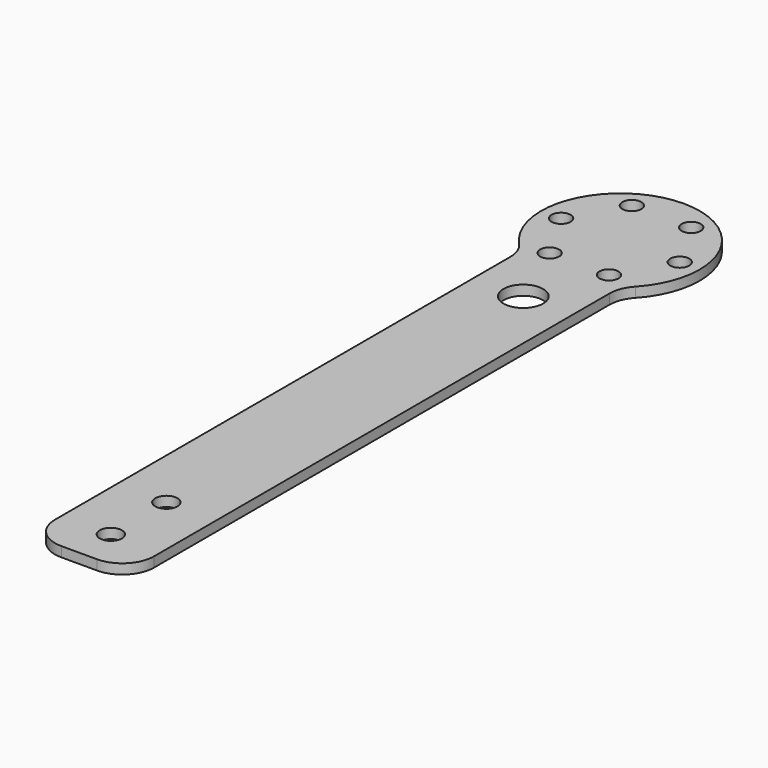
from build123d import *

# Parameters (mm, degrees)
F0_R     = 1.778
F0_R_2   = 1.524
F0_R_3   = 3.175
F1_DEPTH = 1.5875
F2_R     = 5.08


with BuildPart() as f1:
    # F0 (on Top) → F1 (new body)
    with BuildSketch(Plane.XY):
        with BuildLine():
            Line((-7.9375, -49.2125), (7.9375, -49.2125))
            Line((7.9375, -49.2125), (7.9375, 49.2125))
            ThreePointArc((7.9375, 49.2125), (0, 71.826434), (-7.9375, 49.2125))
            Line((-7.9375, 49.2125), (-7.9375, -49.2125))
        make_face()
        with Locations((0, -42.8625)):
            Circle(F0_R, mode=Mode.SUBTRACT)
        with Locations((0, -31.75)):
            Circle(F0_R, mode=Mode.SUBTRACT)
        with Locations((-9.5, 59.126434)):
            Circle(F0_R_2, mode=Mode.SUBTRACT)
        with Locations((-4.75, 50.899193)):
            Circle(F0_R_2, mode=Mode.SUBTRACT)
        with Locations((-4.75, 67.353676)):
            Circle(F0_R_2, mode=Mode.SUBTRACT)
        with Locations((0, 39.6875)):
            Circle(F0_R_3, mode=Mode.SUBTRACT)
        with Locations((4.75, 50.899193)):
            Circle(F0_R_2, mode=Mode.SUBTRACT)
        with Locations((4.75, 67.353676)):
            Circle(F0_R_2, mode=Mode.SUBTRACT)
        with Locations((9.5, 59.126434)):
            Circle(F0_R_2, mode=Mode.SUBTRACT)
    extrude(amount=F1_DEPTH)

    # F2
    f2_edges = [f1.edges().sort_by_distance(p)[0] for p in [
        (7.9375, 49.2125, 0.79375),
        (7.9375, -49.2125, 0.79375),
        (-7.9375, -49.2125, 0.79375),
        (-7.9375, 49.2125, 0.79375),
    ]]
    fillet(f2_edges, radius=F2_R)


solid = f1.part
